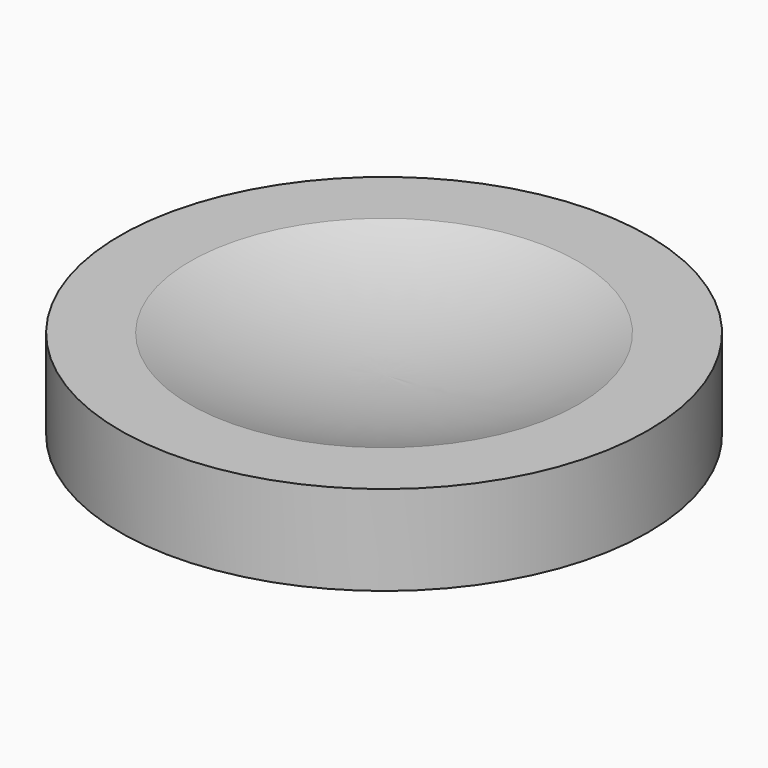
from build123d import *

# Parameters (mm, degrees)
F3_DEPTH = 8


with BuildPart() as f1:
    # F0 (on Front) → F1 (revolve)
    with BuildSketch(Plane.XZ):
        with BuildLine():
            ThreePointArc((23.340029, 0), (11.879762, -3.323853), (0, -4.445))
            Line((0, -4.445), (0, -6.985))
            Line((0, -6.985), (2.625, -6.985))
            Line((2.625, -6.985), (2.625, -14.985))
            Line((2.625, -14.985), (5.165, -14.985))
            Line((5.165, -14.985), (5.165, -6.782712))
            ThreePointArc((5.165, -6.782712), (14.646366, -5.340385), (23.818849, -2.54))
            Line((23.818849, -2.54), (29.21, -2.54))
            Line((29.21, -2.54), (29.21, -10.795))
            Line((29.21, -10.795), (31.75, -10.795))
            Line((31.75, -10.795), (31.75, 0))
            Line((31.75, 0), (23.340029, 0))
        make_face()
    revolve(axis=Axis((0, 0, -5.715), (0, 0, -1)))

    # F2 (on face) → F3 (join)
    with BuildSketch(Plane(origin=(0, 0, -14.985), x_dir=(1, 0, 0), z_dir=(0, 0, -1))):
        with BuildLine():
            ThreePointArc((2.25, -1.352082), (2.529513, -0.701561), (2.625, 0))
            ThreePointArc((2.625, 0), (2.529513, 0.701561), (2.25, 1.352082))
            Line((2.25, 1.352082), (2.25, -1.352082))
        make_face()
    extrude(amount=-F3_DEPTH)


solid = f1.part
